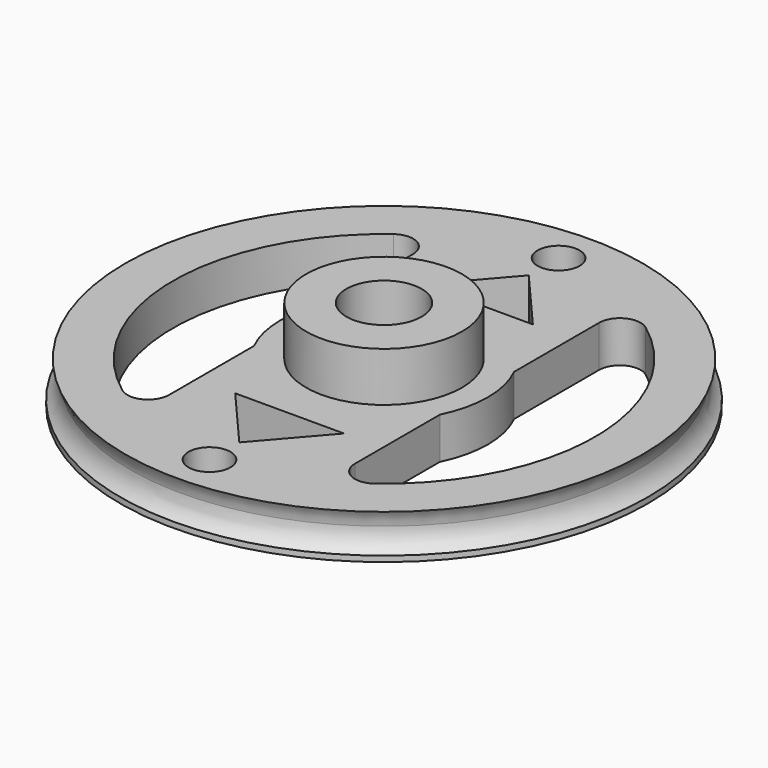
from build123d import *

# Parameters (mm, degrees)
F0_R     = 25.4
F0_R_2   = 3.625
F1_DEPTH = 4
F2_R     = 7.5
F2_R_2   = 3.625
F3_DEPTH = 4.75
F4_R     = 2.020962
F5_DEPTH = 4.001
F6_R     = 2.5


with BuildPart() as f1:
    # F0 (on Top) → F1 (new body)
    with BuildSketch(Plane.XY):
        Circle(F0_R)
        with BuildLine():
            Line((-8.950036, 14.687379), (-8.950036, 4.46059))
            ThreePointArc((-8.950036, 4.46059), (-10, 0), (-8.950036, -4.46059))
            Line((-8.950036, -4.46059), (-8.950036, -14.687379))
            ThreePointArc((-8.950036, -14.687379), (-10.053051, -16.474953), (-12.145455, -16.290805))
            ThreePointArc((-12.145455, -16.290805), (-20.32, 0), (-12.145455, 16.290805))
            ThreePointArc((-12.145455, 16.290805), (-10.053051, 16.474953), (-8.950036, 14.687379))
        make_face(mode=Mode.SUBTRACT)
        Circle(F0_R_2, mode=Mode.SUBTRACT)
        with BuildLine():
            Line((8.950036, 4.46059), (8.950036, 14.687379))
            ThreePointArc((8.950036, 14.687379), (10.053051, 16.474953), (12.145455, 16.290805))
            ThreePointArc((12.145455, 16.290805), (20.32, 0), (12.145455, -16.290805))
            ThreePointArc((12.145455, -16.290805), (10.053051, -16.474953), (8.950036, -14.687379))
            Line((8.950036, -14.687379), (8.950036, -4.46059))
            ThreePointArc((8.950036, -4.46059), (10, 0), (8.950036, 4.46059))
        make_face(mode=Mode.SUBTRACT)
    extrude(amount=F1_DEPTH)

    # F2 (on face) → F3 (join)
    with BuildSketch(Plane.XY.offset(4)):
        Circle(F2_R)
        Circle(F2_R_2, mode=Mode.SUBTRACT)
    extrude(amount=F3_DEPTH)

    # F4 (on face) → F5 (cut, through all)
    with BuildSketch(Plane.XY.offset(4)):
        Polygon((-5.234685, 11.362989), (0, 11.362989), (0, 17.41166), align=None)
        Polygon((0, 17.41166), (0, 11.362989), (5.234685, 11.362989), align=None)
        Polygon((0, -11.362989), (-5.234685, -11.362989), (0, -17.41166), (5.234685, -11.362989), align=None)
        with Locations((0, 20.997725)):
            Circle(F4_R)
        with Locations((0, -20.997725)):
            Circle(F4_R)
    extrude(amount=-F5_DEPTH, mode=Mode.SUBTRACT)

    # F6 (on Front) → F7 (revolve, cut)
    with BuildSketch(Plane.XZ):
        with Locations((-26.922889, 2.530067)):
            Circle(F6_R)
    revolve(axis=Axis((0, 0, 7.021954), (0, 0, -1)), mode=Mode.SUBTRACT)


solid = f1.part
